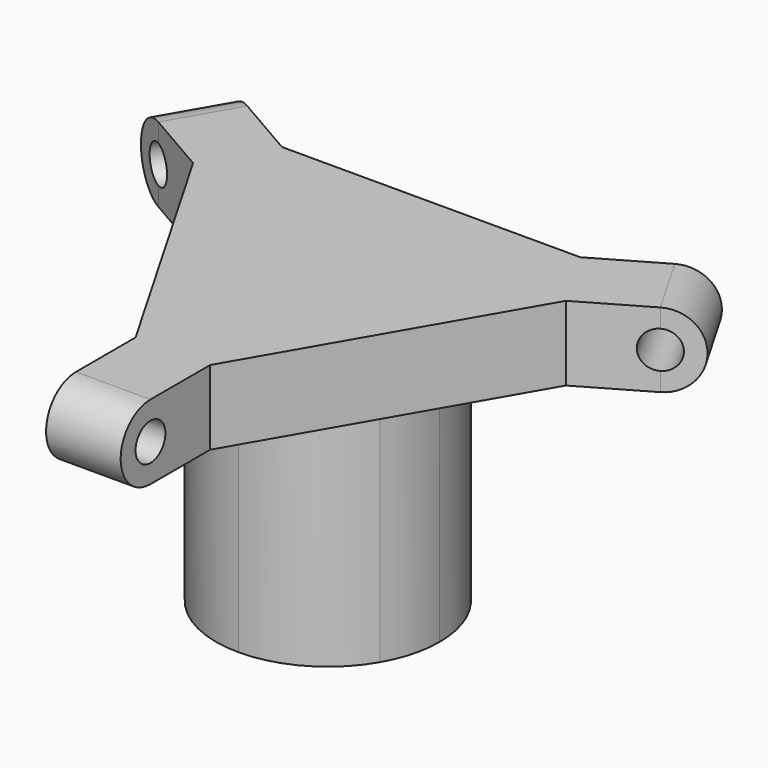
from build123d import *

# Parameters (mm, degrees)
F1_DEPTH  = 5
F3_DEPTH  = 10
F5_DEPTH  = 10
F7_DEPTH  = 10
F8_R      = 2.5
F9_DEPTH  = 25.4
F10_R     = 2.5
F11_DEPTH = 25.4
F12_R     = 2.5
F13_DEPTH = 25.4
F15_DEPTH = 30


with BuildPart() as f1:
    # F0 (on Top) → F1 (new body, symmetric)
    with BuildSketch(Plane.XY):
        Polygon((-25, 43.3012701892), (-30, 51.9615242271), (-20, 51.9615242271), (-28.6602540378, 56.9615242271), (-33.6602540378, 48.3012701892), align=None)
        Polygon((-20, 51.9615242271), (-30, 51.9615242271), (-25, 43.3012701892), align=None)
        Polygon((20, 51.9615242271), (-20, 51.9615242271), (-25, 43.3012701892), (-5, 8.6602540378), (5, 8.6602540378), (25, 43.3012701892), align=None)
        Polygon((28.6602540378, 56.9615242271), (20, 51.9615242271), (30, 51.9615242271), (25, 43.3012701892), (33.6602540378, 48.3012701892), align=None)
        Polygon((30, 51.9615242271), (20, 51.9615242271), (25, 43.3012701892), align=None)
        Polygon((5, 8.6602540378), (-5, 8.6602540378), (0, 0), align=None)
        Polygon((0, 0), (-5, 8.6602540378), (-5, -1.3397459622), (5, -1.3397459622), (5, 8.6602540378), align=None)
    extrude(amount=F1_DEPTH, both=True)

    # F2 (on face) → F3 (join)
    with BuildSketch(Plane(origin=(12.5, 21.6506350946, 0), x_dir=(0.8660254038, -0.5, 0), z_dir=(-0.5, -0.8660254038, 0))):
        with BuildLine():
            Line((-53.3012701892, -5), (-53.3012701892, 5))
            ThreePointArc((-53.3012701892, 5), (-58.3012701892, 0), (-53.3012701892, -5))
        make_face()
    extrude(amount=-F3_DEPTH)

    # F4 (on face) → F5 (join)
    with BuildSketch(Plane(origin=(-17.5, 30.3108891325, 0), x_dir=(-0.8660254038, -0.5, 0), z_dir=(-0.5, 0.8660254038, 0))):
        with BuildLine():
            Line((-53.3012701892, -5), (-53.3012701892, 5))
            ThreePointArc((-53.3012701892, 5), (-58.3012701892, 0), (-53.3012701892, -5))
        make_face()
    extrude(amount=-F5_DEPTH)

    # F6 (on face) → F7 (join)
    with BuildSketch(Plane.YZ.offset(5)):
        with BuildLine():
            Line((-1.3397459622, -5), (-1.3397459622, 5))
            ThreePointArc((-1.3397459622, 5), (-6.3397459622, 0), (-1.3397459622, -5))
        make_face()
    extrude(amount=-F7_DEPTH)

    # F8 (on face) → F9 (cut)
    with BuildSketch(Plane.YZ.offset(5)):
        with Locations((-1.3397459622, 0)):
            Circle(F8_R)
    extrude(amount=-F9_DEPTH, mode=Mode.SUBTRACT)

    # F10 (on face) → F11 (cut)
    with BuildSketch(Plane(origin=(-17.5, 30.3108891325, 0), x_dir=(-0.8660254038, -0.5, 0), z_dir=(-0.5, 0.8660254038, 0))):
        with Locations((-53.3012701892, 0)):
            Circle(F10_R)
    extrude(amount=-F11_DEPTH, mode=Mode.SUBTRACT)

    # F12 (on face) → F13 (cut)
    with BuildSketch(Plane(origin=(12.5, 21.6506350946, 0), x_dir=(0.8660254038, -0.5, 0), z_dir=(-0.5, -0.8660254038, 0))):
        with Locations((-53.3012701892, 0)):
            Circle(F12_R)
    extrude(amount=-F13_DEPTH, mode=Mode.SUBTRACT)

    # F14 (on face) → F15 (join)
    with BuildSketch(Plane(origin=(0, 0, -5), x_dir=(1, 0, 0), z_dir=(0, 0, -1))):
        with BuildLine():
            ThreePointArc((-12.9903810568, -42.1410161514), (-7.5, -47.6313972081), (0, -49.6410161514))
            Line((0, -49.6410161514), (0, -46.6410161514))
            ThreePointArc((0, -46.6410161514), (-6, -45.0333209968), (-10.3923048454, -40.6410161514))
            Line((-10.3923048454, -40.6410161514), (-12.9903810568, -42.1410161514))
        make_face()
        with BuildLine():
            Line((0, -46.6410161514), (0, -49.6410161514))
            ThreePointArc((0, -49.6410161514), (7.5, -47.6313972081), (12.9903810568, -42.1410161514))
            Line((12.9903810568, -42.1410161514), (10.3923048454, -40.6410161514))
            ThreePointArc((10.3923048454, -40.6410161514), (6, -45.0333209968), (0, -46.6410161514))
        make_face()
        with BuildLine():
            ThreePointArc((-12.9903810568, -27.1410161514), (-15, -34.6410161514), (-12.9903810568, -42.1410161514))
            Line((-12.9903810568, -42.1410161514), (-10.3923048454, -40.6410161514))
            ThreePointArc((-10.3923048454, -40.6410161514), (-12, -34.6410161514), (-10.3923048454, -28.6410161514))
            Line((-10.3923048454, -28.6410161514), (-12.9903810568, -27.1410161514))
        make_face()
        with BuildLine():
            Line((10.3923048454, -40.6410161514), (12.9903810568, -42.1410161514))
            ThreePointArc((12.9903810568, -42.1410161514), (14.4888873943, -38.5233018279), (15, -34.6410161514))
            ThreePointArc((15, -34.6410161514), (14.4888873943, -30.7587304748), (12.9903810568, -27.1410161514))
            Line((12.9903810568, -27.1410161514), (10.3923048454, -28.6410161514))
            ThreePointArc((10.3923048454, -28.6410161514), (11.5911099155, -31.5351876101), (12, -34.6410161514))
            ThreePointArc((12, -34.6410161514), (11.5911099155, -37.7468446926), (10.3923048454, -40.6410161514))
        make_face()
        with BuildLine():
            ThreePointArc((0, -19.6410161514), (-7.5, -21.6506350946), (-12.9903810568, -27.1410161514))
            Line((-12.9903810568, -27.1410161514), (-10.3923048454, -28.6410161514))
            ThreePointArc((-10.3923048454, -28.6410161514), (-6, -24.248711306), (0, -22.6410161514))
            Line((0, -22.6410161514), (0, -19.6410161514))
        make_face()
        with BuildLine():
            Line((0, -19.6410161514), (0, -22.6410161514))
            ThreePointArc((0, -22.6410161514), (6, -24.248711306), (10.3923048454, -28.6410161514))
            Line((10.3923048454, -28.6410161514), (12.9903810568, -27.1410161514))
            ThreePointArc((12.9903810568, -27.1410161514), (7.5, -21.6506350946), (0, -19.6410161514))
        make_face()
    extrude(amount=F15_DEPTH)


solid = f1.part
